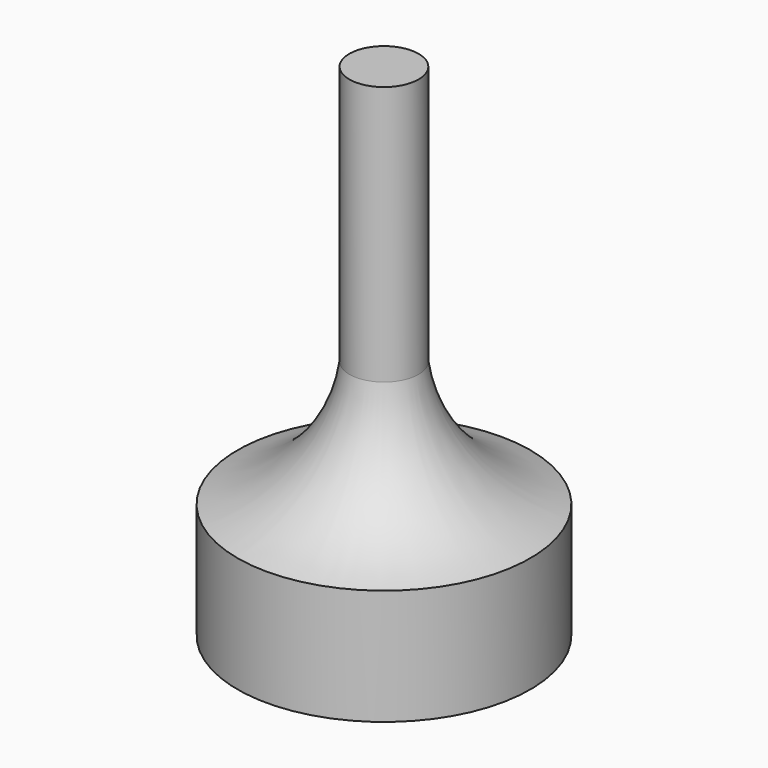
from build123d import *

# Parameters (mm, degrees)
SKETCH001_R = 19
PAD_DEPTH   = 15


with BuildPart() as part:
    # Sketch → Revolution (revolve)
    with BuildSketch(Plane.YZ):
        with BuildLine():
            Line((0, 0), (0, 50))
            Line((0, 50), (-4.5, 50))
            Line((-4.5, 50), (-4.5, 16.287714))
            ThreePointArc((-19, 0), (-9.24271, 5.911764), (-4.5, 16.287714))
            Line((0, 0), (-19, 0))
        make_face()
    revolve(axis=Axis((0, 0, 0), (0, 0, 1)))

    # Sketch001 (on Face4 of Revolution) → Pad (new body)
    with BuildSketch(Plane.YX):
        Circle(SKETCH001_R)
        Polygon((0, 13.914141), (-12.05, 6.957071), (-12.05, -6.957071), (0, -13.914141), (12.05, -6.957071), (12.05, 6.957071), align=None, mode=Mode.SUBTRACT)
    extrude(amount=PAD_DEPTH)


solid = part.part
